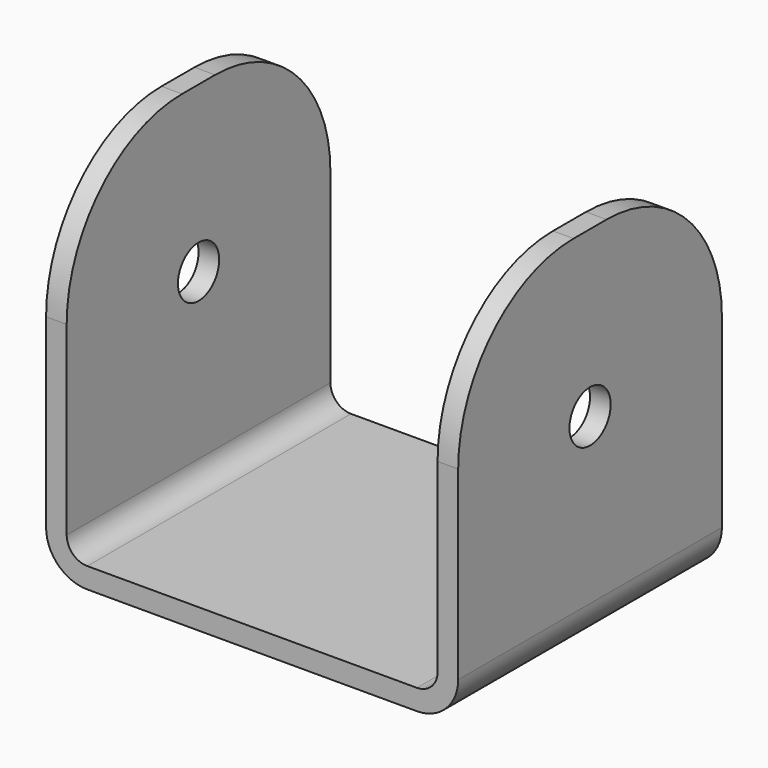
from build123d import *

# Parameters (mm, degrees)
F1_DEPTH = 40
F2_R     = 6.25
F3_DEPTH = 100.001


with BuildPart() as f1:
    # F0 (on Front) → F1 (new body, symmetric)
    with BuildSketch(Plane.XZ):
        with BuildLine():
            ThreePointArc((50, 40), (47.071068, 47.071068), (40, 50))
            Line((40, 50), (-40, 50))
            ThreePointArc((-40, 50), (-47.071068, 47.071068), (-50, 40))
            Line((-50, 40), (-50, -40))
            ThreePointArc((-50, -40), (-47.071068, -47.071068), (-40, -50))
            Line((-40, -50), (40, -50))
            ThreePointArc((40, -50), (47.071068, -47.071068), (50, -40))
            Line((50, -40), (50, 40))
        make_face()
        with BuildLine():
            ThreePointArc((40, 45), (43.535534, 43.535534), (45, 40))
            Line((45, 40), (45, -40))
            ThreePointArc((45, -40), (43.535534, -43.535534), (40, -45))
            Line((40, -45), (-40, -45))
            ThreePointArc((-40, -45), (-43.535534, -43.535534), (-45, -40))
            Line((-45, -40), (-45, 40))
            ThreePointArc((-45, 40), (-43.535534, 43.535534), (-40, 45))
            Line((-40, 45), (40, 45))
        make_face(mode=Mode.SUBTRACT)
    extrude(amount=F1_DEPTH, both=True)

    # F2 (on face) → F3 (cut, through all)
    with BuildSketch(Plane.YZ.offset(50)):
        with BuildLine():
            ThreePointArc((-40, 5), (-29.748737, 29.748737), (-5, 40))
            Line((-5, 40), (5, 40))
            ThreePointArc((5, 40), (29.748737, 29.748737), (40, 5))
            Line((40, 5), (40, 50))
            Line((40, 50), (-40, 50))
            Line((-40, 50), (-40, 5))
        make_face()
        Circle(F2_R)
    extrude(amount=-F3_DEPTH, mode=Mode.SUBTRACT)


solid = f1.part
